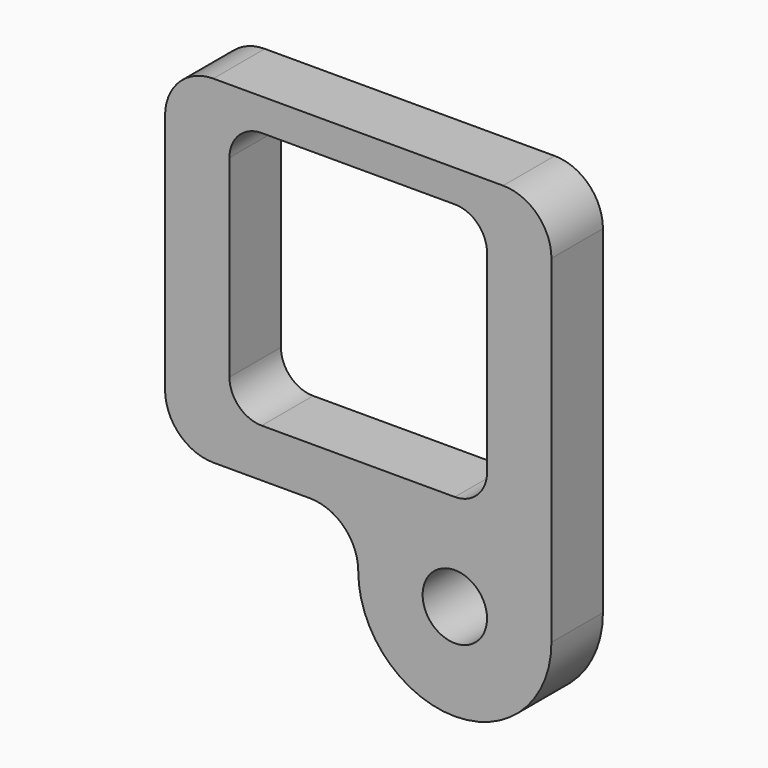
from build123d import *

# Parameters (mm, degrees)
F0_R     = 12.7
F1_DEPTH = 25.4


with BuildPart() as f1:
    # F0 (on Front) → F1 (new body)
    with BuildSketch(Plane.XZ):
        with BuildLine():
            Line((133.35, 0), (19.05, 0))
            ThreePointArc((19.05, 0), (5.579616, -5.579616), (0, -19.05))
            Line((0, -19.05), (0, -114.3))
            ThreePointArc((0, -114.3), (5.579616, -127.770384), (19.05, -133.35))
            Line((19.05, -133.35), (57.15, -133.35))
            ThreePointArc((57.15, -133.35), (70.620384, -138.929616), (76.2, -152.4))
            ThreePointArc((76.2, -152.4), (114.3, -190.5), (152.4, -152.4))
            Line((152.4, -152.4), (152.4, -19.05))
            ThreePointArc((152.4, -19.05), (146.820384, -5.579616), (133.35, 0))
        make_face()
        with Locations((114.3, -152.4)):
            Circle(F0_R, mode=Mode.SUBTRACT)
        with BuildLine():
            Line((114.3, -114.3), (38.1, -114.3))
            ThreePointArc((38.1, -114.3), (29.119744, -110.580256), (25.4, -101.6))
            Line((25.4, -101.6), (25.4, -25.4))
            ThreePointArc((25.4, -25.4), (29.119744, -16.419744), (38.1, -12.7))
            Line((38.1, -12.7), (114.3, -12.7))
            ThreePointArc((114.3, -12.7), (123.280256, -16.419744), (127, -25.4))
            Line((127, -25.4), (127, -101.6))
            ThreePointArc((127, -101.6), (123.280256, -110.580256), (114.3, -114.3))
        make_face(mode=Mode.SUBTRACT)
    extrude(amount=F1_DEPTH)


solid = f1.part
